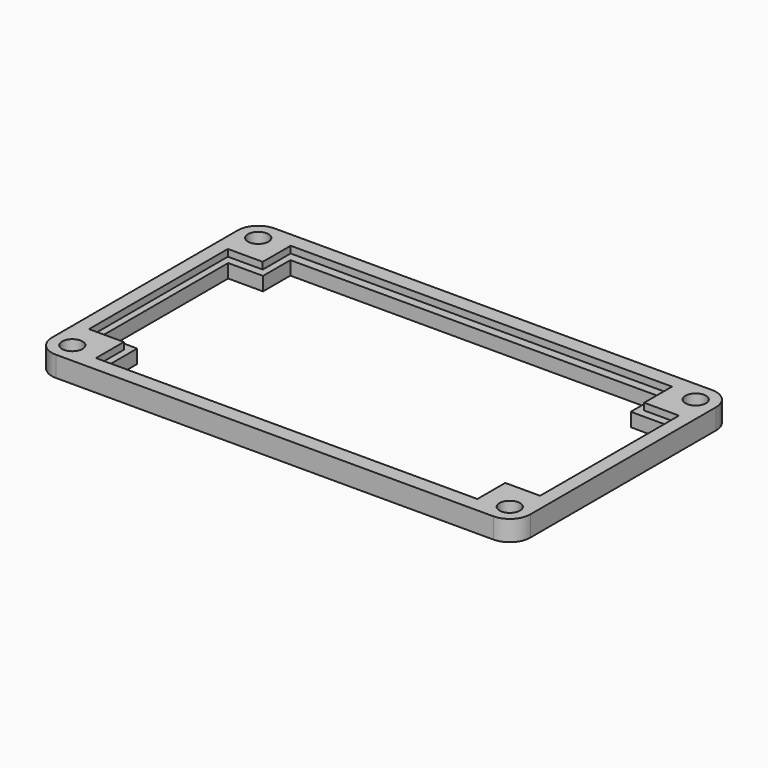
from build123d import *

# Parameters (mm, degrees)
SKETCH_W     = 70
SKETCH_H     = 40
SKETCH_R     = 1.5
PAD_DEPTH    = 3
POCKET_DEPTH = 1
FILLET_R     = 3


with BuildPart() as part:
    # Sketch → Pad (new body)
    with BuildSketch(Plane.XY):
        Rectangle(SKETCH_W, SKETCH_H)
        with Locations((-32, 17)):
            Circle(SKETCH_R, mode=Mode.SUBTRACT)
        with Locations((-32, -17)):
            Circle(SKETCH_R, mode=Mode.SUBTRACT)
        with Locations((32, -17)):
            Circle(SKETCH_R, mode=Mode.SUBTRACT)
        with Locations((32, 17)):
            Circle(SKETCH_R, mode=Mode.SUBTRACT)
        Polygon((-32, 11.5), (-32, -11.5), (-26.9, -11.5), (-26.9, -16.5), (26.9, -16.5), (26.9, -11.5), (32, -11.5), (32, 11.5), (26.9, 11.5), (26.9, 16.5), (-26.9, 16.5), (-26.9, 11.5), align=None, mode=Mode.SUBTRACT)
    extrude(amount=PAD_DEPTH)

    # Sketch001 → Pocket (cut)
    with BuildSketch(Plane.XY.offset(3)):
        Polygon((-27.9, 17.8), (27.9, 17.8), (27.9, 12.7), (33, 12.7), (33, -12.7), (27.9, -12.7), (27.9, -17.8), (-27.9, -17.8), (-27.9, -12.7), (-33, -12.7), (-33, 12.7), (-27.9, 12.7), align=None)
    extrude(amount=-POCKET_DEPTH, mode=Mode.SUBTRACT)

    # Fillet
    fillet_edges = [part.edges().sort_by_distance(p)[0] for p in [
        (-35, -20, 1.5),
        (35, -20, 1.5),
        (35, 20, 1.5),
        (-35, 20, 1.5),
    ]]
    fillet(fillet_edges, radius=FILLET_R)


solid = part.part
